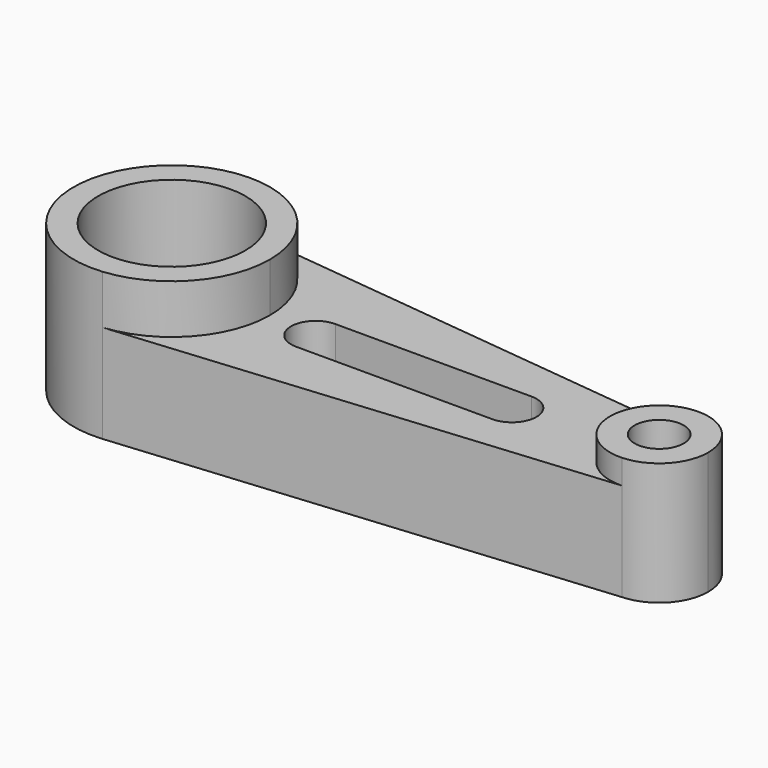
from build123d import *

# Parameters (mm, degrees)
F0_R     = 19.05
F0_R_2   = 6.35
F1_DEPTH = 25.4
F2_DEPTH = 38.1
F3_DEPTH = 31.75


with BuildPart() as f1:
    # F0 (on Top) → F1 (new body)
    with BuildSketch(Plane.XY):
        with BuildLine():
            ThreePointArc((-71.533995, -24.201889), (-55.095046, -16.027055), (-48.459869, 1.091397))
            ThreePointArc((-48.459869, 1.091397), (-54.940362, 18.038734), (-71.075007, 26.338268))
            ThreePointArc((-71.075007, 26.338268), (-99.258822, 1.322061), (-71.533995, -24.201889))
        make_face()
        with Locations((-73.859869, 1.091397)):
            Circle(F0_R, mode=Mode.SUBTRACT)
        with BuildLine():
            ThreePointArc((65.840131, 0), (61.945909, 9.151408), (52.651428, 12.690594))
            ThreePointArc((52.651428, 12.690594), (40.450213, -0.505965), (53.663357, -12.689217))
            ThreePointArc((53.663357, -12.689217), (62.303508, -8.793322), (65.840131, 0))
        make_face()
        with Locations((53.140131, 0)):
            Circle(F0_R_2, mode=Mode.SUBTRACT)
        with BuildLine():
            ThreePointArc((-71.075007, 26.338268), (-54.940362, 18.038734), (-48.459869, 1.091397))
            ThreePointArc((-48.459869, 1.091397), (-55.095046, -16.027055), (-71.533995, -24.201889))
            Line((-71.533995, -24.201889), (53.663357, -12.689217))
            ThreePointArc((53.663357, -12.689217), (40.450213, -0.505965), (52.651428, 12.690594))
            Line((52.651428, 12.690594), (-71.075007, 26.338268))
        make_face()
        with BuildLine():
            ThreePointArc((15.040131, 6.35), (21.390131, 0), (15.040131, -6.35))
            Line((15.040131, -6.35), (-35.759869, -6.35))
            ThreePointArc((-35.759869, -6.35), (-42.109869, 0), (-35.759869, 6.35))
            Line((-35.759869, 6.35), (15.040131, 6.35))
        make_face(mode=Mode.SUBTRACT)
    extrude(amount=F1_DEPTH)

    # F0 (on Top) → F2 (join)
    with BuildSketch(Plane.XY):
        with BuildLine():
            ThreePointArc((-71.533995, -24.201889), (-55.095046, -16.027055), (-48.459869, 1.091397))
            ThreePointArc((-48.459869, 1.091397), (-54.940362, 18.038734), (-71.075007, 26.338268))
            ThreePointArc((-71.075007, 26.338268), (-99.258822, 1.322061), (-71.533995, -24.201889))
        make_face()
        with Locations((-73.859869, 1.091397)):
            Circle(F0_R, mode=Mode.SUBTRACT)
    extrude(amount=F2_DEPTH)

    # F0 (on Top) → F3 (join)
    with BuildSketch(Plane.XY):
        with BuildLine():
            ThreePointArc((65.840131, 0), (61.945909, 9.151408), (52.651428, 12.690594))
            ThreePointArc((52.651428, 12.690594), (40.450213, -0.505965), (53.663357, -12.689217))
            ThreePointArc((53.663357, -12.689217), (62.303508, -8.793322), (65.840131, 0))
        make_face()
        with Locations((53.140131, 0)):
            Circle(F0_R_2, mode=Mode.SUBTRACT)
    extrude(amount=F3_DEPTH)


solid = f1.part
